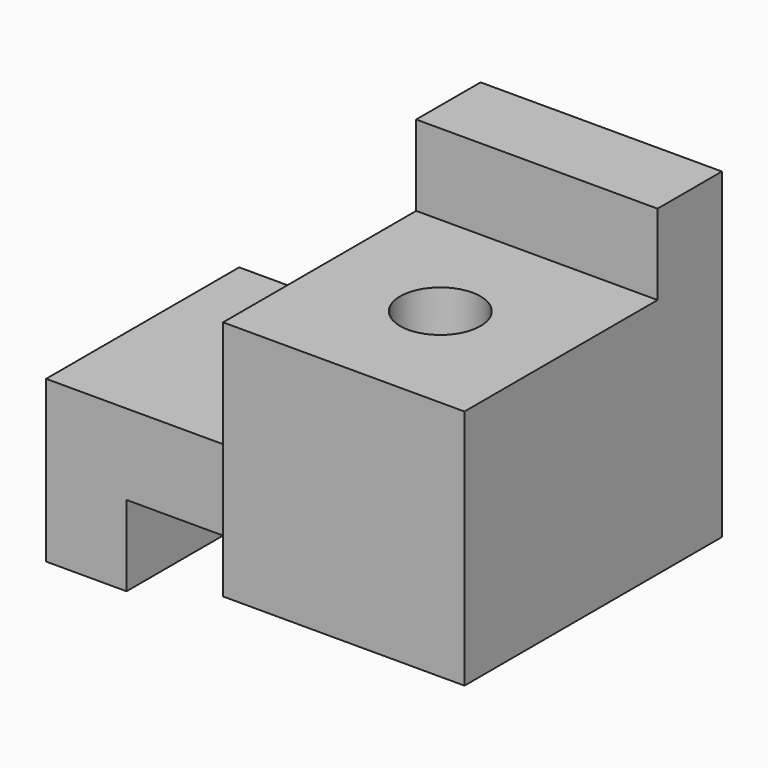
from build123d import *

# Parameters (mm, degrees)
F0_W     = 19.05
F0_H     = 6.35
F1_DEPTH = 25.4
F2_START = -6.35
F2_DEPTH = 19.05
F4_W     = 19.05
F4_H     = 6.35
F5_DEPTH = 38.101
F6_R     = 3.175
F7_DEPTH = 31.751


with BuildPart() as f1:
    # F0 (on Front) → F1 (new body)
    with BuildSketch(Plane.XZ):
        with Locations((28.575, 28.575)):
            Rectangle(F0_W, F0_H)
        Polygon((19.05, 25.4), (19.05, 12.7), (19.05, 6.35), (38.1, 6.35), (38.1, 25.4), align=None)
    extrude(amount=-F1_DEPTH)

    # F0 (on Front) → F2 (join)
    with BuildSketch(Plane.XZ.offset(F2_START)):
        Polygon((0, 12.7), (0, 0), (6.35, 0), (6.35, 6.35), (19.05, 6.35), (19.05, 12.7), align=None)
    extrude(amount=-F2_DEPTH)

    # F4 (on face) → F5 (cut, through all)
    with BuildSketch(Plane.YZ.offset(38.1)):
        with Locations((9.525, 28.575)):
            Rectangle(F4_W, F4_H)
    extrude(amount=-F5_DEPTH, mode=Mode.SUBTRACT)

    # F6 (on Top) → F7 (cut, through all)
    with BuildSketch(Plane.XY):
        with Locations((12.7, 15.875)):
            Circle(F6_R)
        with Locations((28.575, 9.525)):
            Circle(F6_R)
    extrude(amount=F7_DEPTH, mode=Mode.SUBTRACT)


solid = f1.part
